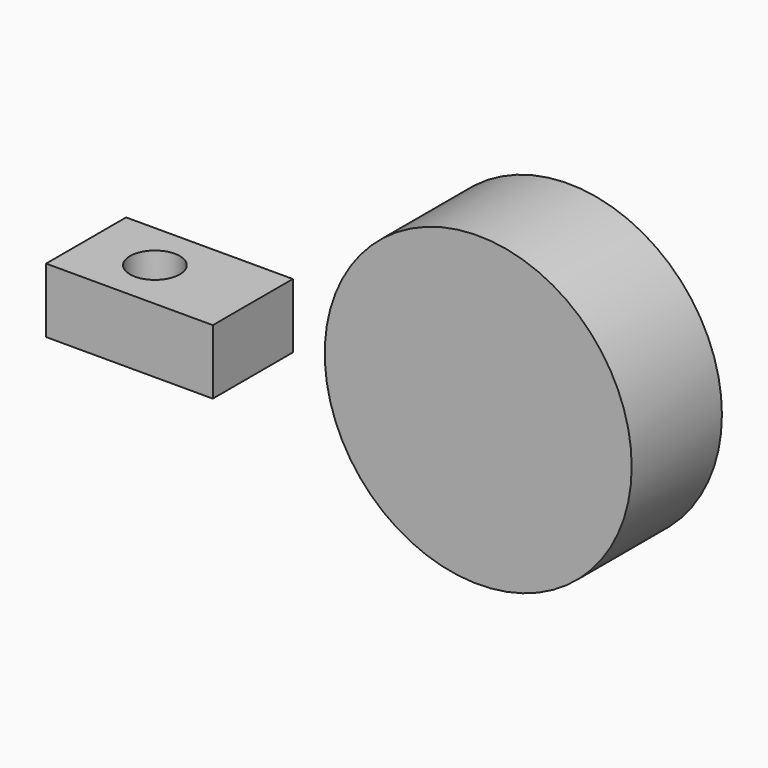
from build123d import *

# Parameters (mm, degrees)
F0_W     = 58.4540003911
F0_H     = 42.9563447833
F2_W     = 63.5
F2_H     = 38.1
F3_DEPTH = 24.638
F4_R     = 9.4783028177
F5_DEPTH = 72.136


with BuildPart() as f1:
    # F0 (on Top) → F1 (revolve)
    with BuildSketch(Plane.XY):
        with Locations((44.3315166049, -3.4902561456)):
            Rectangle(F0_W, F0_H)
    revolve(axis=Axis((15.1045164093, -3.4902561456, 0), (0, 1, 0)))


with BuildPart() as f3:
    # F2 (on Top) → F3 (new body)
    with BuildSketch(Plane.XY):
        with Locations((-82.8541815281, -49.5069261576)):
            Rectangle(F2_W, F2_H)
    extrude(amount=F3_DEPTH)

    # F4 (on face) → F5 (cut)
    with BuildSketch(Plane.XY.offset(24.638)):
        with Locations((-88.6796563864, -49.1600558162)):
            Circle(F4_R)
    extrude(amount=-F5_DEPTH, mode=Mode.SUBTRACT)


solid = Compound([f1.part, f3.part])
